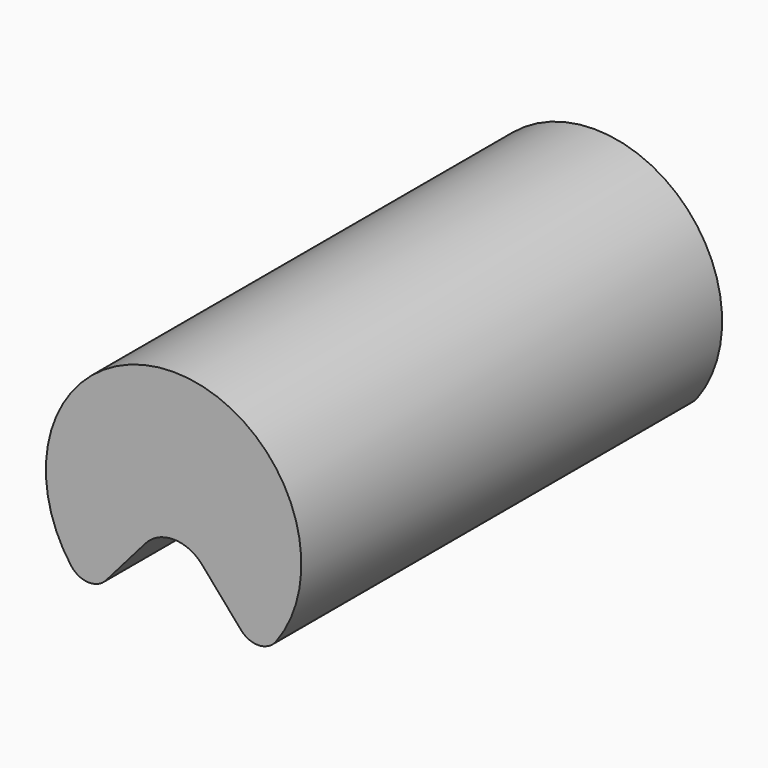
from build123d import *

# Parameters (mm, degrees)
F1_DEPTH = 175


with BuildPart() as f1:
    # F0 (on Front) → F1 (new body, symmetric)
    with BuildSketch(Plane.XZ):
        with BuildLine():
            ThreePointArc((44.857361, -51.602491), (56.750372, -56.750682), (68.216149, -50.710522))
            ThreePointArc((68.216149, -50.710522), (0, 85), (-68.216149, -50.710522))
            ThreePointArc((-68.216149, -50.710522), (-56.750372, -56.750682), (-44.857361, -51.602491))
            Line((-44.857361, -51.602491), (-18.86774, -21.704851))
            ThreePointArc((-18.86774, -21.704851), (0, -13.106327), (18.86774, -21.704851))
            Line((18.86774, -21.704851), (44.857361, -51.602491))
        make_face()
    extrude(amount=F1_DEPTH, both=True)


solid = f1.part
